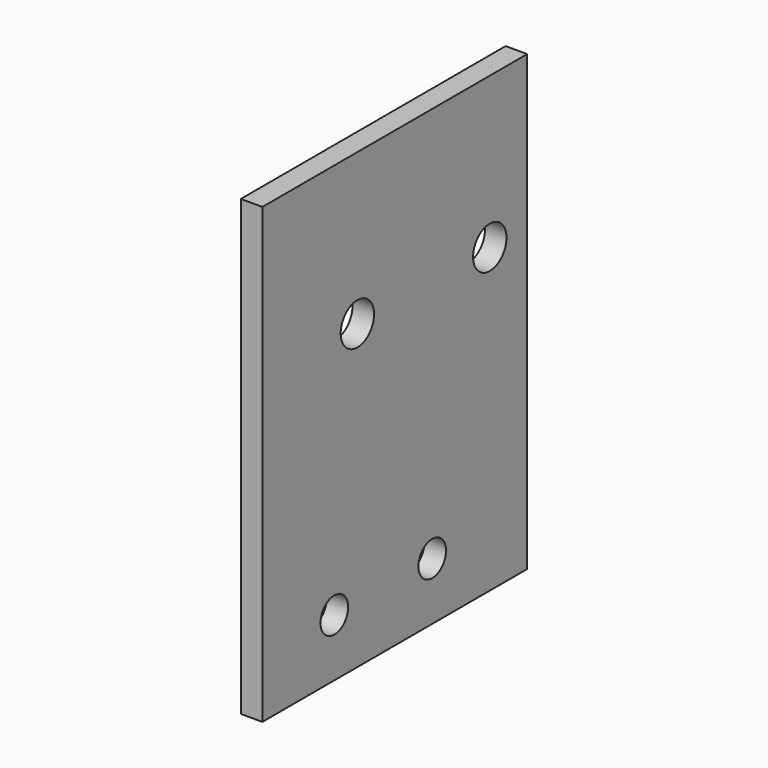
from build123d import *

# Parameters (mm, degrees)
F0_W     = 46
F0_H     = 63
F1_DEPTH = 3
F2_W     = 46
F2_H     = 63
F2_R     = 2.4
F2_R_2   = 2.9
F3_DEPTH = 3.001


with BuildPart() as f1:
    # F0 (on Right) → F1 (new body)
    with BuildSketch(Plane.YZ):
        with Locations((23, 31.5)):
            Rectangle(F0_W, F0_H)
    extrude(amount=F1_DEPTH)

    # F2 (on face) → F3 (intersect, through all)
    with BuildSketch(Plane.YZ.offset(3)):
        with Locations((23, 31.5)):
            Rectangle(F2_W, F2_H)
        with Locations((12.5, 8)):
            Circle(F2_R, mode=Mode.SUBTRACT)
        with Locations((29.5, 8)):
            Circle(F2_R, mode=Mode.SUBTRACT)
        with Locations((16.5, 42)):
            Circle(F2_R_2, mode=Mode.SUBTRACT)
        with Locations((39.5, 42)):
            Circle(F2_R_2, mode=Mode.SUBTRACT)
    extrude(amount=-F3_DEPTH, mode=Mode.INTERSECT)


solid = f1.part
